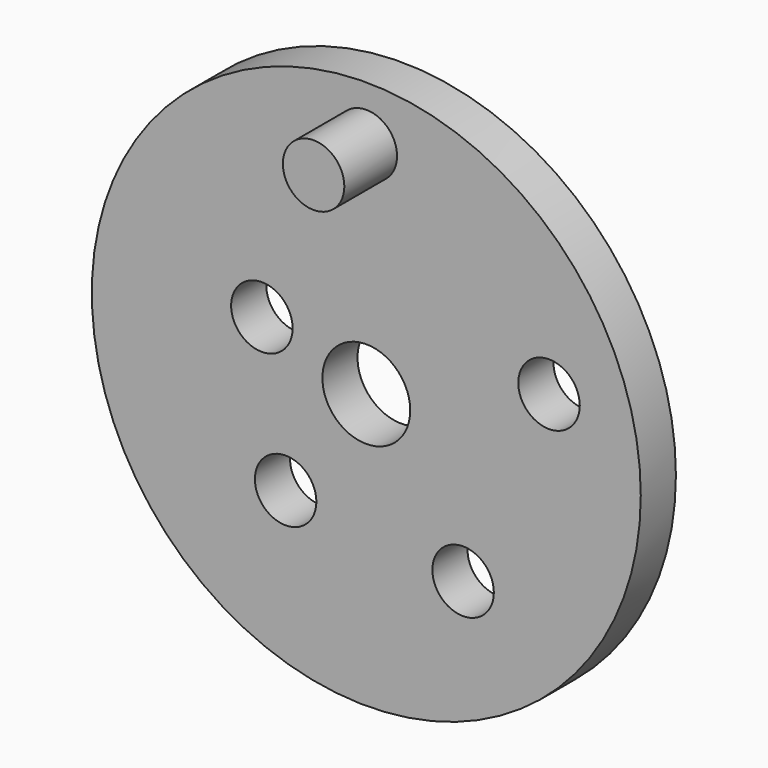
from build123d import *

# Parameters (mm, degrees)
F0_R     = 62.5
F0_R_2   = 7
F0_R_3   = 10
F1_DEPTH = 10
F2_R     = 7
F3_DEPTH = 25


with BuildPart() as f1:
    # F0 (on Front) → F1 (new body)
    with BuildSketch(Plane.XZ):
        Circle(F0_R)
        with Locations((-18.368289, -25.281781)):
            Circle(F0_R_2, mode=Mode.SUBTRACT)
        with Locations((22.041947, -30.338137)):
            Circle(F0_R_2, mode=Mode.SUBTRACT)
        with Locations((-23.776413, 7.725425)):
            Circle(F0_R_2, mode=Mode.SUBTRACT)
        Circle(F0_R_3, mode=Mode.SUBTRACT)
        with Locations((41.608723, 13.519494)):
            Circle(F0_R_2, mode=Mode.SUBTRACT)
        with Locations((0, 50)):
            Circle(F0_R_2, mode=Mode.SUBTRACT)
    extrude(amount=F1_DEPTH)

    # F2 (on Front) → F3 (join)
    with BuildSketch(Plane.XZ):
        with Locations((0, 50)):
            Circle(F2_R)
    extrude(amount=F3_DEPTH)


solid = f1.part
